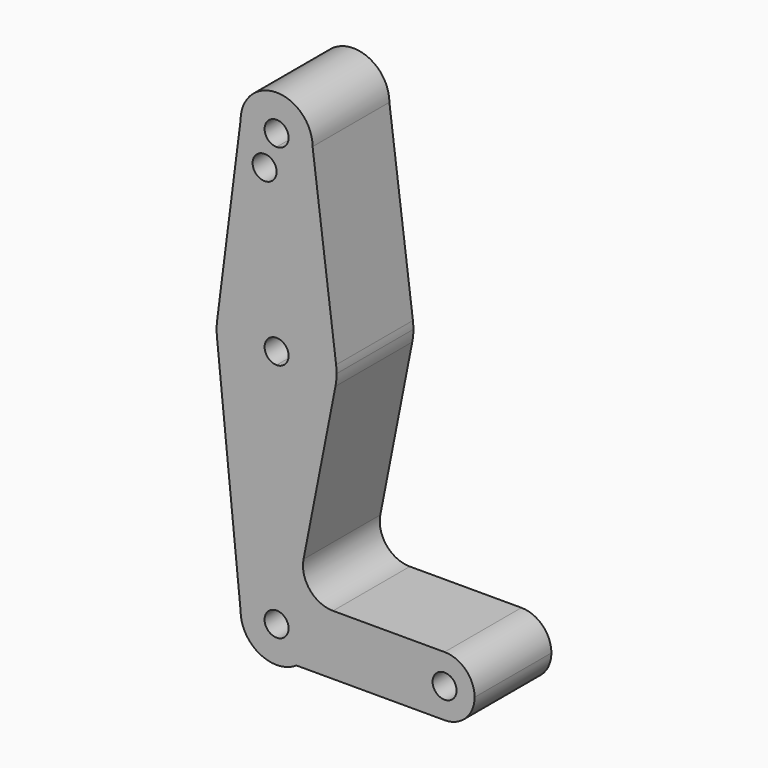
from build123d import *

# Parameters (mm, degrees)
F1_DEPTH = 25.4


with BuildPart() as f1:
    # F0 (on Front) → F1 (new body)
    with BuildSketch(Plane.XZ):
        with BuildLine():
            ThreePointArc((3.175, 0), (-2.2450640303, -2.2450640303), (0, 3.175))
            Line((0, 3.175), (0, 9.525))
            ThreePointArc((0, 9.525), (-6.7351920908, 6.7351920908), (-9.525, 0))
            ThreePointArc((-9.525, 0), (-4.5041730003, -8.392737967), (5.2651418547, -7.9375))
            ThreePointArc((5.2651418547, -7.9375), (8.392737967, -4.5041730003), (9.525, 0))
            Line((9.525, 0), (3.175, 0))
        make_face()
        with BuildLine():
            ThreePointArc((-9.525, 0), (-6.7351920908, 6.7351920908), (0, 9.525))
            Line((0, 9.525), (0, 47.625))
            ThreePointArc((0, 47.625), (-10.644756084, 51.722700101), (-15.7942028036, 61.9003804205))
            Line((-15.7942028036, 61.9003804205), (-9.525, 0))
        make_face()
        with BuildLine():
            Line((0, 47.625), (0, 9.525))
            ThreePointArc((0, 9.525), (6.7351920908, 6.7351920908), (9.525, 0))
            Line((9.525, 0), (36.5125, 0))
            ThreePointArc((36.5125, 0), (38.8373399243, 5.6126600757), (44.45, 7.9375))
            Line((44.45, 7.9375), (14.9287607866, 7.9375))
            ThreePointArc((14.9287607866, 7.9375), (8.789244456, 10.8367575864), (7.1276127819, 17.4199434038))
            Line((7.1276127819, 17.4199434038), (15.5773722139, 60.4404085387))
            ThreePointArc((15.5773722139, 60.4404085387), (10.085747631, 51.2405824068), (0, 47.625))
        make_face()
        with BuildLine():
            Line((36.5125, 0), (9.525, 0))
            ThreePointArc((9.525, 0), (8.392737967, -4.5041730003), (5.2651418547, -7.9375))
            Line((5.2651418547, -7.9375), (44.45, -7.9375))
            ThreePointArc((44.45, -7.9375), (38.8373399243, -5.6126600757), (36.5125, 0))
        make_face()
        with BuildLine():
            ThreePointArc((-15.7942028036, 61.9003804205), (-10.644756084, 51.722700101), (0, 47.625))
            Line((0, 47.625), (0, 60.325))
            ThreePointArc((0, 60.325), (-3.175, 63.5), (0, 66.675))
            Line((0, 66.675), (0, 79.375))
            ThreePointArc((0, 79.375), (-10.4912828548, 75.4142187767), (-15.7474569047, 65.5082893304))
            ThreePointArc((-15.7474569047, 65.5082893304), (-15.873667691, 63.7056672947), (-15.7942028036, 61.9003804205))
        make_face()
        with BuildLine():
            Line((0, 60.325), (0, 47.625))
            ThreePointArc((0, 47.625), (10.085747631, 51.2405824068), (15.5773722139, 60.4404085387))
            ThreePointArc((15.5773722139, 60.4404085387), (15.8004178567, 61.9629832296), (15.875, 63.5))
            ThreePointArc((15.875, 63.5), (15.8430821396, 64.5061676396), (15.7474569047, 65.5082893304))
            ThreePointArc((15.7474569047, 65.5082893304), (10.4912828548, 75.4142187767), (0, 79.375))
            Line((0, 79.375), (0, 66.675))
            ThreePointArc((0, 66.675), (2.2450640303, 65.7450640303), (3.175, 63.5))
            ThreePointArc((3.175, 63.5), (2.2450640303, 61.2549359697), (0, 60.325))
        make_face()
        with BuildLine():
            ThreePointArc((44.45, 7.9375), (38.8373399243, 5.6126600757), (36.5125, 0))
            ThreePointArc((36.5125, 0), (38.8373399243, -5.6126600757), (44.45, -7.9375))
            ThreePointArc((44.45, -7.9375), (50.0626600757, -5.6126600757), (52.3875, 0))
            ThreePointArc((52.3875, 0), (50.0626600757, 5.6126600757), (44.45, 7.9375))
        make_face()
        with BuildLine():
            ThreePointArc((47.625, 0), (44.45, -3.175), (41.275, 0))
            ThreePointArc((41.275, 0), (44.45, 3.175), (47.625, 0))
        make_face(mode=Mode.SUBTRACT)
        with BuildLine():
            Line((-9.525, 114.3), (-15.7474569047, 65.5082893304))
            ThreePointArc((-15.7474569047, 65.5082893304), (-10.4912828548, 75.4142187767), (0, 79.375))
            Line((0, 79.375), (0, 104.775))
            ThreePointArc((0, 104.775), (-0.0235303028, 104.7750290644), (-0.0470604619, 104.7751162572))
            ThreePointArc((-0.0470604619, 104.7751162572), (-4.2333333333, 102.3263251719), (-5.9501617603, 106.8621777363))
            ThreePointArc((-5.9501617603, 106.8621777363), (-8.5848970805, 110.1738435419), (-9.525, 114.3))
        make_face()
        with BuildLine():
            Line((0, 104.775), (0, 79.375))
            ThreePointArc((0, 79.375), (10.4912828548, 75.4142187767), (15.7474569047, 65.5082893304))
            Line((15.7474569047, 65.5082893304), (9.525, 114.3))
            ThreePointArc((9.525, 114.3), (6.7351920908, 107.5648079092), (0, 104.775))
        make_face()
        with BuildLine():
            ThreePointArc((9.525, 114.3), (0, 123.825), (-9.525, 114.3))
            ThreePointArc((-9.525, 114.3), (-8.5848970805, 110.1738435419), (-5.9501617603, 106.8621777363))
            ThreePointArc((-5.9501617603, 106.8621777363), (-2.3782922709, 108.3931592095), (0, 105.3197438789))
            Line((0, 105.3197438789), (0, 104.775))
            ThreePointArc((0, 104.775), (6.7351920908, 107.5648079092), (9.525, 114.3))
        make_face()
        with BuildLine():
            ThreePointArc((3.175, 114.3), (2.2450640303, 112.0549359697), (0, 111.125))
            ThreePointArc((0, 111.125), (-2.2450640303, 116.5450640303), (3.175, 114.3))
        make_face(mode=Mode.SUBTRACT)
        with BuildLine():
            Line((0, 9.525), (0, 3.175))
            ThreePointArc((0, 3.175), (2.2450640303, 2.2450640303), (3.175, 0))
            Line((3.175, 0), (9.525, 0))
            ThreePointArc((9.525, 0), (6.7351920908, 6.7351920908), (0, 9.525))
        make_face()
    extrude(amount=F1_DEPTH)


solid = f1.part
